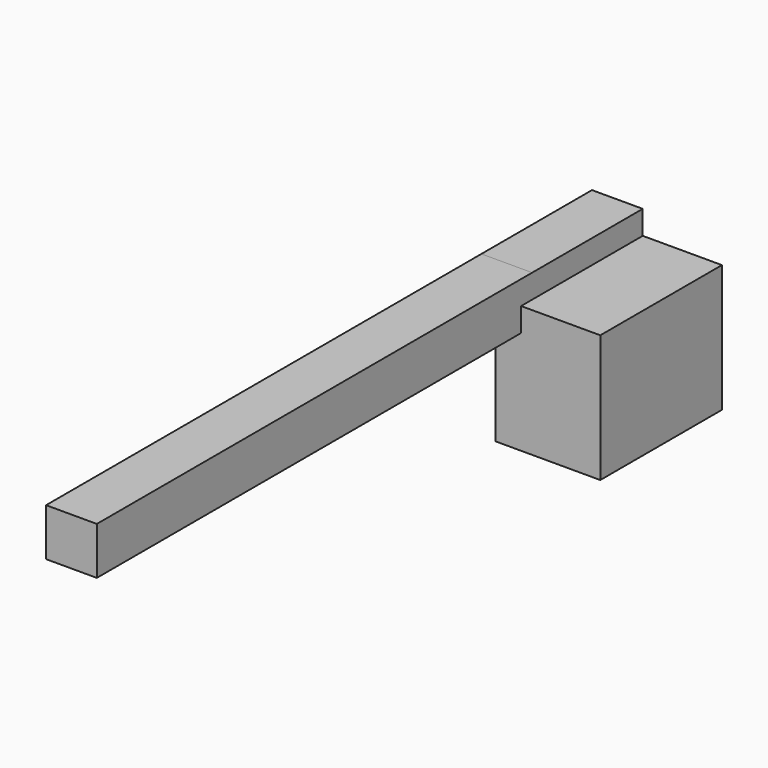
from build123d import *

# Parameters (mm, degrees)
F0_W     = 93.262718
F0_H     = 87.345972
F1_DEPTH = 1000
F2_W     = 192.167476
F2_H     = 234.211862
F3_DEPTH = 25.4
F4_DEPTH = 254


with BuildPart() as f1:
    # F0 (on Front) → F1 (new body)
    with BuildSketch(Plane.XZ):
        Rectangle(F0_W, F0_H)
    extrude(amount=F1_DEPTH)

    # F2 (on Front) → F3 (join)
    with BuildSketch(Plane.XZ):
        with Locations((96.083738, -117.105931)):
            Rectangle(F2_W, F2_H)
    extrude(amount=F3_DEPTH)

    # F3_face (on face) → F4 (join)
    with BuildSketch(Plane(origin=(83.670854, 0, -102.239393), x_dir=(1, 0, 0), z_dir=(0, 1, 0))):
        Polygon((108.496622, -102.239393), (108.496622, 131.972469), (-83.670854, 131.972469), (-83.670854, -58.566407), (-130.302212, -58.566407), (-130.302212, -145.91238), (-37.039495, -145.91238), (-37.039495, -102.239393), align=None)
    extrude(amount=F4_DEPTH)


solid = f1.part
